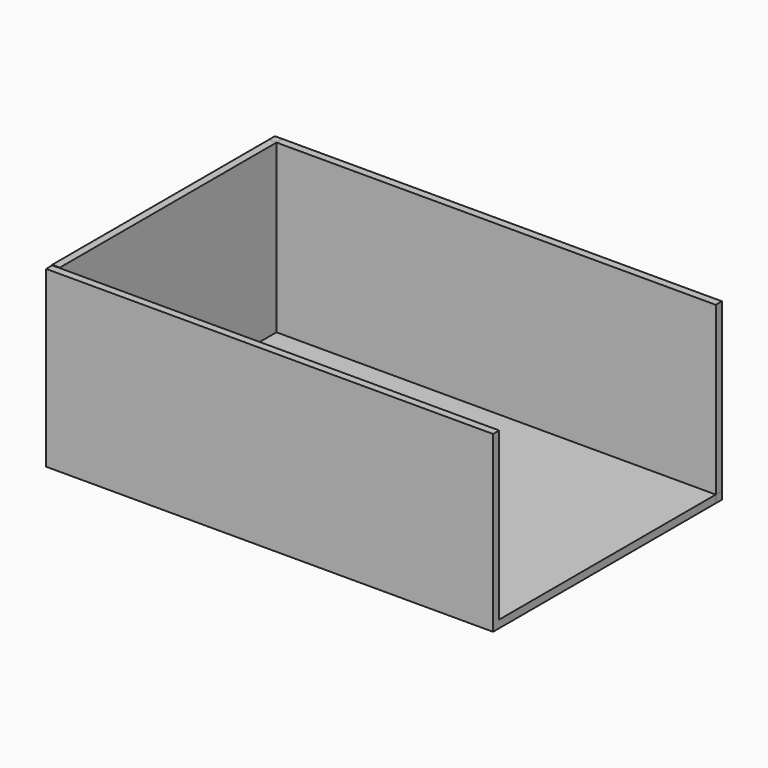
from build123d import *

# Parameters (mm, degrees)
F0_W     = 86
F0_H     = 53
F1_DEPTH = 1.5
F2_W     = 53
F2_H     = 32.7
F2_H_2   = 1.5
F3_DEPTH = 1.5
F4_W     = 86
F4_H     = 32.7
F5_DEPTH = 1.5
F6_DEPTH = 1.5
F7_W     = 86
F7_H     = 32.5979471803
F8_DEPTH = 1.5


with BuildPart() as f1:
    # F0 (on Top) → F1 (new body)
    with BuildSketch(Plane.XY):
        Rectangle(F0_W, F0_H)
    extrude(amount=F1_DEPTH)

    # F2 (on face) → F3 (join)
    with BuildSketch(Plane(origin=(-43, 0, 0), x_dir=(0, -1, 0), z_dir=(-1, 0, 0))):
        with Locations((0, 17.85)):
            Rectangle(F2_W, F2_H)
        with Locations((0, 0.75)):
            Rectangle(F2_W, F2_H_2)
    extrude(amount=F3_DEPTH)


with BuildPart() as f5:
    # F4 (on face) → F5 (new body)
    with BuildSketch(Plane(origin=(0, 26.5, 0), x_dir=(-1, 0, 0), z_dir=(0, 1, 0))):
        with Locations((0, 17.85)):
            Rectangle(F4_W, F4_H)
    extrude(amount=F5_DEPTH)


with BuildPart() as f6:
    # F6 (new): a face of the model
    f6_faces = [f1.part.faces().sort_by_distance(p)[0] for p in [
        (42.0605379199, 26.5, 0.75),
    ]]
    extrude(f6_faces, amount=F6_DEPTH)


with BuildPart() as f1_1:
    add(f1.part)

    # F7 (on face) → F8 (join)
    with BuildSketch(Plane.XZ.offset(26.5)):
        with Locations((0, 17.7989735901)):
            Rectangle(F7_W, F7_H)
        Polygon((-44.5, 34.0979471803), (-44.5, 0), (43, 0), (43, 1.5), (-43, 1.5), (-43, 34.0979471803), align=None)
    extrude(amount=F8_DEPTH)


solid = Compound([f5.part, f6.part, f1_1.part])
